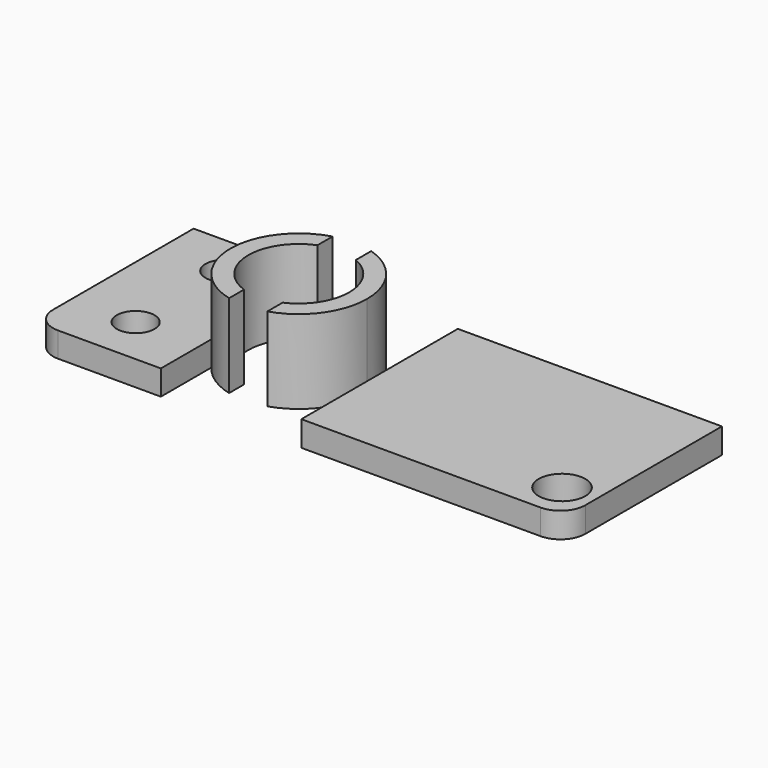
from build123d import *

# Parameters (mm, degrees)
F0_W     = 35.93583
F0_H     = 56.430485
F0_R     = 5.297828
F1_DEPTH = 7
F2_R     = 7
F4_DEPTH = 23.5
F5_W     = 74.2881
F5_H     = 55.02674
F5_R     = 6.554145
F6_DEPTH = 7.1
F7_R     = 7


with BuildPart() as f1:
    # F0 (on Top) → F1 (new body)
    with BuildSketch(Plane.XY):
        with Locations((-57.252677, -1.122995)):
            Rectangle(F0_W, F0_H)
        with Locations((-57.383023, -15.581551)):
            Circle(F0_R, mode=Mode.SUBTRACT)
        with Locations((-57.383023, 15.581551)):
            Circle(F0_R, mode=Mode.SUBTRACT)
    extrude(amount=F1_DEPTH)

    # F2
    f2_edges = [f1.edges().sort_by_distance(p)[0] for p in [
        (-75.220592, -29.338237, 3.5),
    ]]
    fillet(f2_edges, radius=F2_R)

    # F3 (on Top) → F4 (join)
    with BuildSketch(Plane.XY):
        with BuildLine():
            Line((-29.237198, 13.16466), (-29.237198, 18.477073))
            ThreePointArc((-29.237198, 18.477073), (-43.183676, -0.299966), (-28.657722, -18.6324))
            Line((-28.657722, -18.6324), (-28.657722, -13.381791))
            ThreePointArc((-28.657722, -13.381791), (-38.148363, -0.30941), (-29.237198, 13.16466))
        make_face()
        with BuildLine():
            ThreePointArc((-18.15487, -18.309635), (-8.467474, -11.342572), (-4.761848, 0))
            ThreePointArc((-4.761848, 0), (-8.504096, 11.392469), (-18.272964, 18.346748))
            Line((-18.272964, 18.346748), (-18.272964, 12.981109))
            ThreePointArc((-18.272964, 12.981109), (-12.103013, 7.751871), (-9.796125, 0))
            ThreePointArc((-9.796125, 0), (-12.067804, -7.697684), (-18.15487, -12.928602))
            Line((-18.15487, -12.928602), (-18.15487, -18.309635))
        make_face()
    extrude(amount=F4_DEPTH)


with BuildPart() as f6:
    # F5 (on Top) → F6 (new body)
    with BuildSketch(Plane.XY):
        with Locations((37.14405, -1.544118)):
            Rectangle(F5_W, F5_H)
        with Locations((65.0234, -18.669788)):
            Circle(F5_R, mode=Mode.SUBTRACT)
    extrude(amount=F6_DEPTH)

    # F7
    f7_edges = [f6.edges().sort_by_distance(p)[0] for p in [
        (74.2881, -29.057488, 3.55),
    ]]
    fillet(f7_edges, radius=F7_R)


solid = Compound([f1.part, f6.part])
